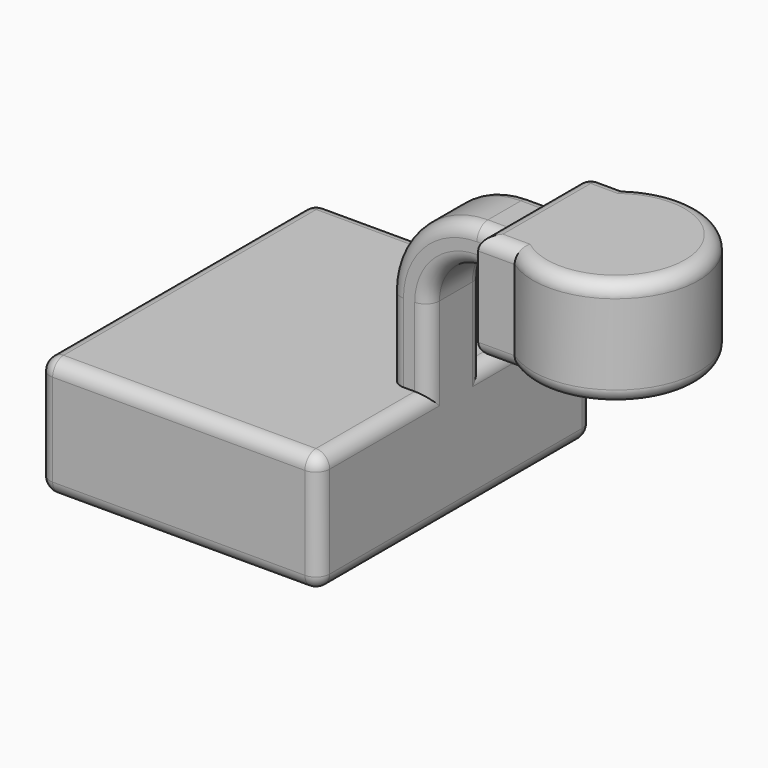
from build123d import *

# Parameters (mm, degrees)
F1_DEPTH = 63.5
F2_DEPTH = 12.7
F3_DEPTH = 25.4
F0_W     = 30.6498706341
F0_H     = 39.8745834827
F5_R     = 5.08


with BuildPart() as f1:
    # F0 (on Front) → F1 (new body, symmetric)
    with BuildSketch(Plane.XZ):
        Polygon((37.4401323497, 22.1690796316), (-51.7774410546, 22.1690796316), (-51.7774410546, -22.1690796316), (51.7774410546, -22.1690796316), (51.7774410546, 22.1690796316), align=None)
    extrude(amount=F1_DEPTH, both=True)

    # F0 (on Front) → F2 (join, symmetric)
    with BuildSketch(Plane.XZ):
        with BuildLine():
            Line((37.4401323497, 51.2318972406), (37.4401323497, 22.1690796316))
            Line((37.4401323497, 22.1690796316), (51.7774410546, 22.1690796316))
            Line((51.7774410546, 22.1690796316), (51.7774410546, 51.2318972406))
            ThreePointArc((51.7774410546, 51.2318972406), (57.0358954685, 63.9269292039), (69.7309274318, 69.1853836179))
            Line((69.7309274318, 69.1853836179), (80.344311893, 69.1853836179))
            Line((80.344311893, 69.1853836179), (80.344311893, 83.5226923227))
            Line((80.344311893, 83.5226923227), (69.7309274318, 83.5226923227))
            ThreePointArc((69.7309274318, 83.5226923227), (46.8978872594, 74.0649374131), (37.4401323497, 51.2318972406))
        make_face()
    extrude(amount=F2_DEPTH, both=True)

    # F0 (on Front) → F3 (join, symmetric)
    with BuildSketch(Plane.XZ):
        Polygon((80.344311893, 89.1226753592), (80.344311893, 83.5226923227), (80.344311893, 69.1853836179), (80.344311893, 49.2480918765), (110.9941825271, 49.2480918765), (110.9941825271, 89.1226753592), align=None)
    extrude(amount=F3_DEPTH, both=True)

    # F0 (on Front) → F4 (revolve)
    with BuildSketch(Plane.XZ):
        with Locations((126.3191178441, 69.1853836179)):
            Rectangle(F0_W, F0_H)
    revolve(axis=Axis((110.9941825271, 0, 69.1853836179), (0, 0, 1)))

    # F5
    f5_edges = [f1.edges().sort_by_distance(p)[0] for p in [
        (51.777441, 12.7, 36.700488),
        (46.897887, 12.7, 74.064937),
        (46.897887, -12.7, 74.064937),
        (80.344312, 25.4, 69.185384),
        (141.644053, 0, 89.122675),
        (87.092322, 25.4, 89.122675),
        (80.344312, 0, 89.122675),
        (87.092322, -25.4, 89.122675),
        (87.092322, 25.4, 49.248092),
        (141.644053, 0, 49.248092),
        (87.092322, -25.4, 49.248092),
        (80.344312, 0, 49.248092),
        (51.777441, -12.7, 36.700488),
        (57.035895, 12.7, 63.926929),
        (0, 63.5, 22.16908),
        (-51.777441, 0, 22.16908),
        (-51.777441, 63.5, 0),
        (-51.777441, 0, -22.16908),
        (0, 63.5, -22.16908),
        (51.777441, 38.1, 22.16908),
        (0, -63.5, 22.16908),
        (-51.777441, -63.5, 0),
        (51.777441, 63.5, 0),
        (0, -63.5, -22.16908),
        (51.777441, 0, -22.16908),
        (51.777441, -63.5, 0),
        (51.777441, -38.1, 22.16908),
    ]]
    fillet(f5_edges, radius=F5_R)


solid = f1.part
